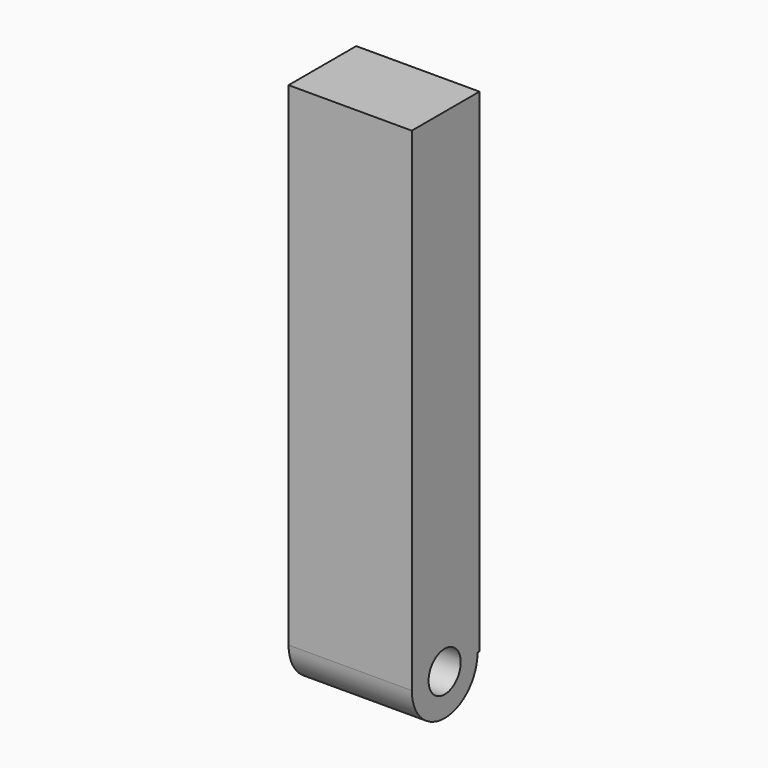
from build123d import *

# Parameters (mm, degrees)
F1_DEPTH = 19.05


with BuildPart() as f1:
    # F0 (on Right) → F1 (new body)
    with BuildSketch(Plane.YZ):
        with BuildLine():
            ThreePointArc((-6.35, 0), (0, 6.35), (6.35, 0))
            Line((6.35, 0), (6.725732, 0))
            Line((6.725732, 0), (6.725732, 76.2))
            Line((6.725732, 76.2), (-6.35, 76.2))
            Line((-6.35, 76.2), (-6.35, 0))
        make_face()
        with BuildLine():
            Line((3.1115, 0), (6.35, 0))
            ThreePointArc((6.35, 0), (0, 6.35), (-6.35, 0))
            Line((-6.35, 0), (-3.1115, 0))
            ThreePointArc((-3.1115, 0), (0, 3.1115), (3.1115, 0))
        make_face()
        with BuildLine():
            ThreePointArc((-6.35, 0), (0, -6.35), (6.35, 0))
            Line((6.35, 0), (3.1115, 0))
            ThreePointArc((3.1115, 0), (0, -3.1115), (-3.1115, 0))
            Line((-3.1115, 0), (-6.35, 0))
        make_face()
    extrude(amount=F1_DEPTH)


solid = f1.part
